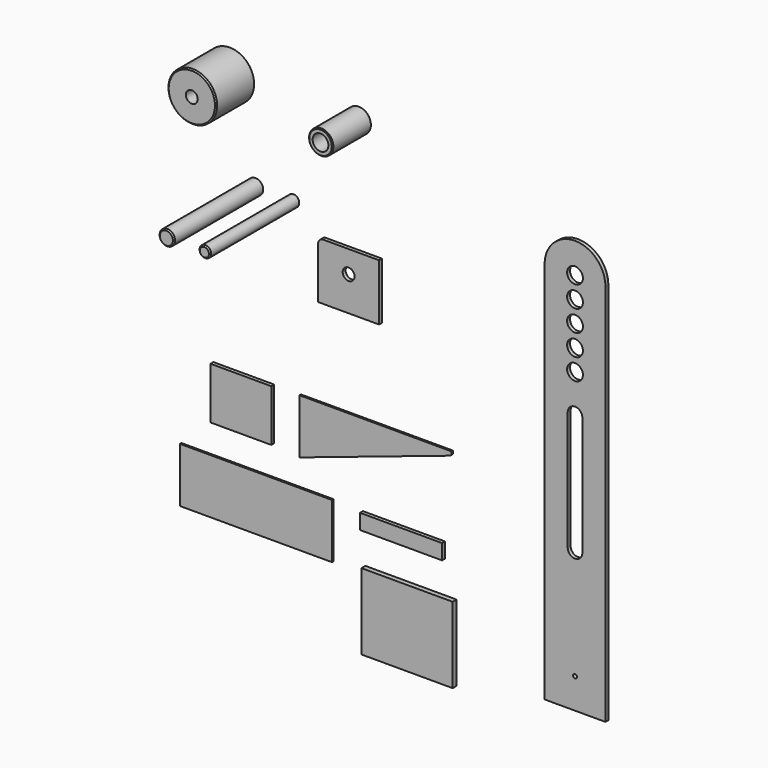
from build123d import *

# Parameters (mm, degrees)
F0_R      = 3.25
F0_R_2    = 13
F1_DEPTH  = 6
F0_R_3    = 20
F2_DEPTH  = 40
F3_SIZE   = 1.5
F0_R_4    = 40
F0_R_5    = 9.75
F4_DEPTH  = 40
F5_SIZE   = 2
F0_R_6    = 12.7
F6_DEPTH  = 92.5
F0_R_7    = 9.5
F7_DEPTH  = 92.5
F8_SIZE   = 2
F9_SIZE   = 2
F10_DEPTH = 6
F0_W      = 150
F0_H      = 125
F11_DEPTH = 8
F0_W_2    = 135
F0_H_2    = 25
F12_DEPTH = 6
F13_DEPTH = 3
F0_W_3    = 100
F0_H_3    = 85
F14_DEPTH = 6
F0_W_4    = 250
F0_H_4    = 90
F15_DEPTH = 3


with BuildPart() as f1:
    # F0 (on Front) → F1 (new body)
    with BuildSketch(Plane.XZ):
        with BuildLine():
            Line((-50, 129.481139), (-50, -500.518861))
            Line((-50, -500.518861), (50, -500.518861))
            Line((50, -500.518861), (50, 129.481139))
            ThreePointArc((50, 129.481139), (0, 179.481139), (-50, 129.481139))
        make_face()
        with Locations((0, -450.518861)):
            Circle(F0_R, mode=Mode.SUBTRACT)
        with BuildLine():
            Line((-12, -268.518861), (-12, -72.518861))
            ThreePointArc((-12, -72.518861), (0, -60.518861), (12, -72.518861))
            Line((12, -72.518861), (12, -268.518861))
            ThreePointArc((12, -268.518861), (0, -280.518861), (-12, -268.518861))
        make_face(mode=Mode.SUBTRACT)
        with Locations((0, -10.518861)):
            Circle(F0_R_2, mode=Mode.SUBTRACT)
        with Locations((0, 24.481139)):
            Circle(F0_R_2, mode=Mode.SUBTRACT)
        with Locations((0, 59.481139)):
            Circle(F0_R_2, mode=Mode.SUBTRACT)
        with Locations((0, 94.481139)):
            Circle(F0_R_2, mode=Mode.SUBTRACT)
        with Locations((0, 129.481139)):
            Circle(F0_R_2, mode=Mode.SUBTRACT)
    extrude(amount=F1_DEPTH)


with BuildPart() as f2:
    # F0 (on Front) → F2 (new body, symmetric)
    with BuildSketch(Plane.XZ):
        with Locations((-391.117364, 208.332568)):
            Circle(F0_R_3)
        with Locations((-391.117364, 208.332568)):
            Circle(F0_R_2, mode=Mode.SUBTRACT)
    extrude(amount=F2_DEPTH, both=True)

    # F3
    f3_edges = [f2.edges().sort_by_distance(p)[0] for p in [
        (-411.117364, -40, 208.332568),
        (-411.117364, 40, 208.332568),
    ]]
    chamfer(f3_edges, length=F3_SIZE)


with BuildPart() as f4:
    # F0 (on Front) → F4 (new body, symmetric)
    with BuildSketch(Plane.XZ):
        with Locations((-602.681398, 205.294058)):
            Circle(F0_R_4)
        with Locations((-602.681398, 205.294058)):
            Circle(F0_R_5, mode=Mode.SUBTRACT)
    extrude(amount=F4_DEPTH, both=True)

    # F5
    f5_edges = [f4.edges().sort_by_distance(p)[0] for p in [
        (-642.681398, -40, 205.294058),
        (-642.681398, 40, 205.294058),
    ]]
    chamfer(f5_edges, length=F5_SIZE)


with BuildPart() as f6:
    # F0 (on Front) → F6 (new body, symmetric)
    with BuildSketch(Plane.XZ):
        with Locations((-602.496564, 22.488941)):
            Circle(F0_R_6)
    extrude(amount=F6_DEPTH, both=True)

    # F8
    f8_edges = [f6.edges().sort_by_distance(p)[0] for p in [
        (-615.196564, -92.5, 22.488941),
        (-615.196564, 92.5, 22.488941),
    ]]
    chamfer(f8_edges, length=F8_SIZE)


with BuildPart() as f7:
    # F0 (on Front) → F7 (new body, symmetric)
    with BuildSketch(Plane.XZ):
        with Locations((-540.006518, 22.488941)):
            Circle(F0_R_7)
    extrude(amount=F7_DEPTH, both=True)

    # F9
    f9_edges = [f7.edges().sort_by_distance(p)[0] for p in [
        (-549.506518, -92.5, 22.488941),
        (-549.506518, 92.5, 22.488941),
    ]]
    chamfer(f9_edges, length=F9_SIZE)


with BuildPart() as f10:
    # F0 (on Front) → F10 (new body)
    with BuildSketch(Plane.XZ):
        with BuildLine():
            Line((-322.136265, -46.5), (-322.136265, 46.5))
            Line((-322.136265, 46.5), (-414.136265, 46.5))
            ThreePointArc((-414.136265, 46.5), (-419.793119, 44.156854), (-422.136265, 38.5))
            Line((-422.136265, 38.5), (-422.136265, -46.5))
            Line((-422.136265, -46.5), (-322.136265, -46.5))
        make_face()
        with Locations((-372.136265, 10)):
            Circle(F0_R_5, mode=Mode.SUBTRACT)
    extrude(amount=F10_DEPTH)


with BuildPart() as f11:
    # F0 (on Front) → F11 (new body)
    with BuildSketch(Plane.XZ):
        with Locations((-274.493006, -469.52486)):
            Rectangle(F0_W, F0_H)
    extrude(amount=F11_DEPTH)


with BuildPart() as f12:
    # F0 (on Front) → F12 (new body)
    with BuildSketch(Plane.XZ):
        with Locations((-285.99215, -341.59984)):
            Rectangle(F0_W_2, F0_H_2)
    extrude(amount=F12_DEPTH)


with BuildPart() as f13:
    # F0 (on Front) → F13 (new body)
    with BuildSketch(Plane.XZ):
        Polygon((-205.369025, -193.341711), (-455.369025, -193.341711), (-455.369025, -283.341711), (-207.136792, -200.109478), (-205.369025, -198.341711), align=None)
    extrude(amount=F13_DEPTH)


with BuildPart() as f14:
    # F0 (on Front) → F14 (new body)
    with BuildSketch(Plane.XZ):
        with Locations((-549.218547, -235.841711)):
            Rectangle(F0_W_3, F0_H_3)
    extrude(amount=F14_DEPTH)


with BuildPart() as f15:
    # F0 (on Front) → F15 (new body)
    with BuildSketch(Plane.XZ):
        with Locations((-526.878327, -372.575121)):
            Rectangle(F0_W_4, F0_H_4)
    extrude(amount=F15_DEPTH)


solid = Compound([f1.part, f2.part, f4.part, f6.part, f7.part, f10.part, f11.part, f12.part, f13.part, f14.part, f15.part])
